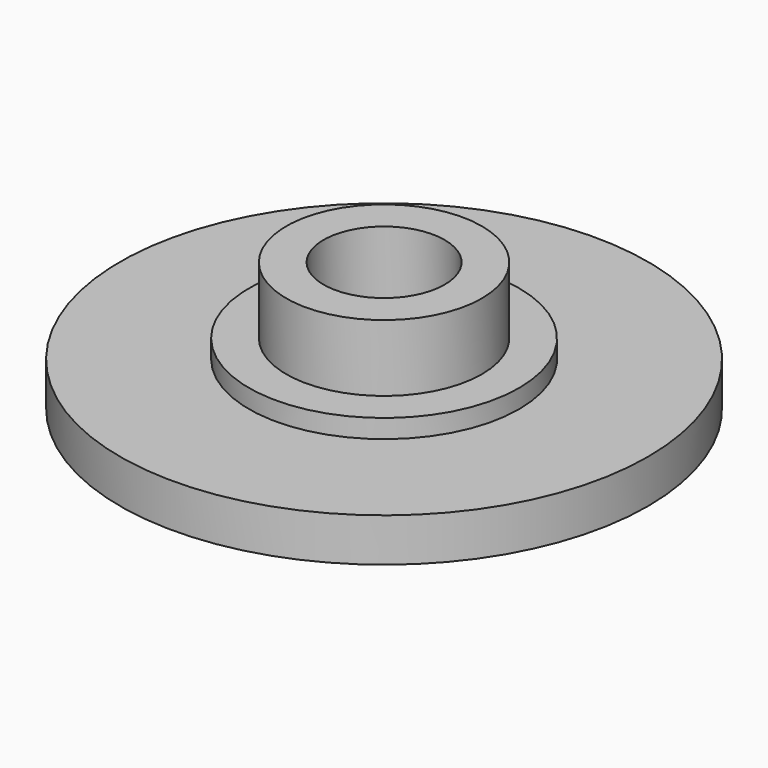
from build123d import *

# Parameters (mm, degrees)
F0_W = 1.524
F0_H = 0.762


with BuildPart() as f1:
    # F0 (on Front) → F1 (revolve)
    with BuildSketch(Plane.XZ):
        Polygon((0, 1.778), (0, 0), (10.795, 0), (10.795, 1.778), (5.5245, 1.778), (4.0005, 1.778), (4.0005, 2.54), (4.0005, 5.2705), (2.4765, 5.2705), (2.4765, 1.778), align=None)
        with Locations((4.7625, 2.159)):
            Rectangle(F0_W, F0_H)
    revolve(axis=Axis((0, 0, 13.315846), (0, 0, -1)))


solid = f1.part
